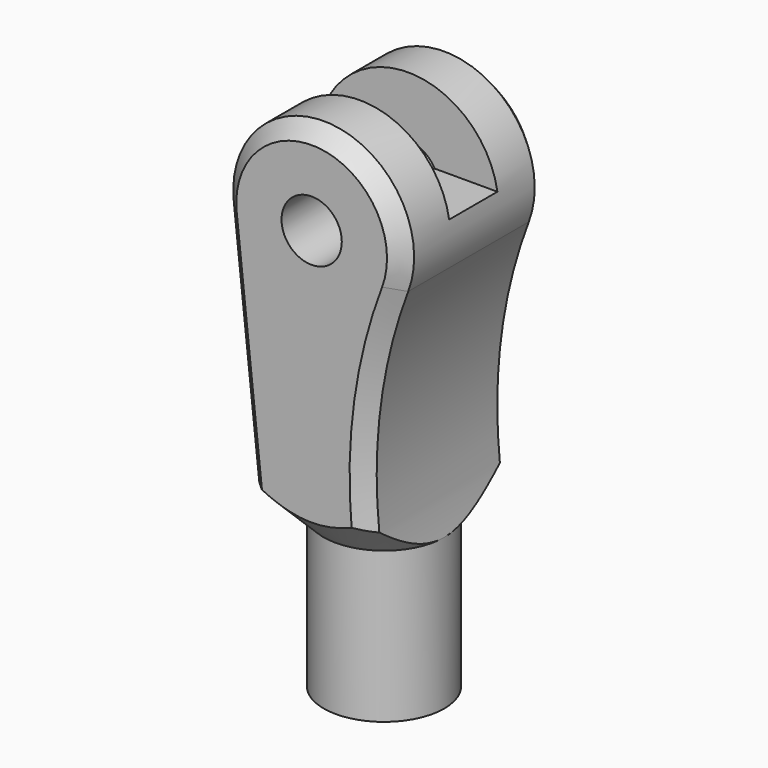
from build123d import *

# Parameters (mm, degrees)
SKETCH_R        = 10
PAD_DEPTH       = 40
SKETCH001_W     = 20
SKETCH001_H     = 4
POCKET_DEPTH    = 10
SKETCH003_R     = 10
SKETCH003_R_2   = 4
POCKET001_DEPTH = 10
SKETCH005_R     = 2
POCKET002_DEPTH = 38.001
SKETCH006_W     = 45.010599
SKETCH006_H     = 48.069569
POCKET003_DEPTH = 4.001
SKETCH009_W     = 22.304068
SKETCH009_H     = 42.809419
POCKET004_DEPTH = 4.001
CHAMFER_SIZE    = 1
CHAMFER001_SIZE = 1


with BuildPart() as part:
    # Sketch → Pad (new body)
    with BuildSketch(Plane.XY):
        Circle(SKETCH_R)
    extrude(amount=PAD_DEPTH)

    # Sketch001 (on Face3 of Pad) → Pocket (cut)
    with BuildSketch(Plane.XY.offset(40)):
        Rectangle(SKETCH001_W, SKETCH001_H)
    extrude(amount=-POCKET_DEPTH, mode=Mode.SUBTRACT)

    # Sketch003 (on Face2 of Pocket) → Pocket001 (cut)
    with BuildSketch(Plane(origin=(0, 0, 0), x_dir=(1, 0, 0), z_dir=(0, 0, -1))):
        Circle(SKETCH003_R)
        Circle(SKETCH003_R_2, mode=Mode.SUBTRACT)
    extrude(amount=-POCKET001_DEPTH, mode=Mode.SUBTRACT)

    # Sketch005 (on DatumPlane) → Pocket002 (cut, through all)
    with BuildSketch(Plane.XZ.offset(28)):
        with Locations((0, 29.052325)):
            Circle(SKETCH005_R)
        with BuildLine():
            ThreePointArc((5.607622, 26.918181), (0.769749, 35.002744), (-5.966094, 28.415363))
            Line((-5.966094, 28.415363), (-4, 10))
            Line((-4, 10), (-20.111568, 10))
            Line((-20.111568, 10), (-20.111568, 42.267994))
            Line((-20.111568, 42.267994), (18.230141, 42.267994))
            Line((18.230141, 42.267994), (18.230141, 10))
            Line((18.230141, 10), (4, 10))
            ThreePointArc((5.607622, 26.918181), (3.659522, 18.567825), (4, 10))
        make_face()
    extrude(amount=-POCKET002_DEPTH, mode=Mode.SUBTRACT)

    # Sketch006 (on DatumPlane) → Pocket003 (cut, through all)
    with BuildSketch(Plane(origin=(0, -6, 0), x_dir=(-1, 0, 0), z_dir=(0, 1, 0))):
        with Locations((-1.18355, 18.119115)):
            Rectangle(SKETCH006_W, SKETCH006_H)
    extrude(amount=-POCKET003_DEPTH, mode=Mode.SUBTRACT)

    # Sketch008 → Groove (revolve, cut)
    with BuildSketch(Plane.XZ):
        Polygon((-4, 10), (-11.309977, 17.309977), (-11.309977, 10), align=None)
    revolve(axis=Axis((0, 0, 0), (0, 0, 1)), mode=Mode.SUBTRACT)

    # Sketch009 (on DatumPlane) → Pocket004 (cut, through all)
    with BuildSketch(Plane.XZ.offset(-6)):
        with Locations((-2.652106, 20.426258)):
            Rectangle(SKETCH009_W, SKETCH009_H)
    extrude(amount=-POCKET004_DEPTH, mode=Mode.SUBTRACT)

    # Chamfer
    chamfer_edges = [part.edges().sort_by_distance(p)[0] for p in [
        (3.83859, -6, 20.072708),
        (0.769749, -6, 35.002744),
        (-5.165605, -6, 20.917609),
    ]]
    chamfer(chamfer_edges, length=CHAMFER_SIZE)

    # Chamfer001
    chamfer001_edges = [part.edges().sort_by_distance(p)[0] for p in [
        (3.83859, 6, 20.072708),
        (0.769749, 6, 35.002744),
        (-5.165605, 6, 20.917609),
    ]]
    chamfer(chamfer001_edges, length=CHAMFER001_SIZE)


solid = part.part
